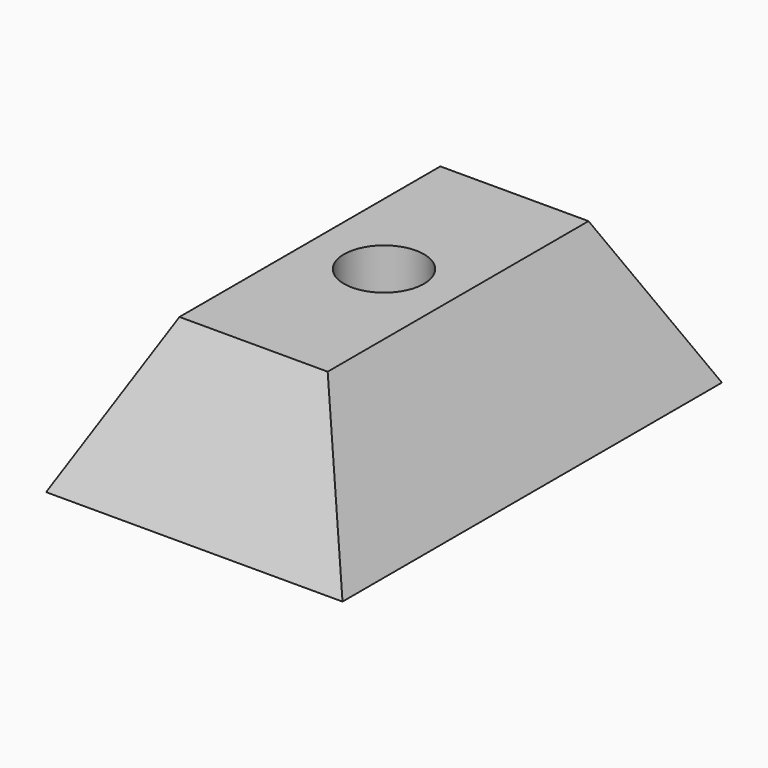
from build123d import *

# Parameters (mm, degrees)
F1_DEPTH = 10.16
F3_DEPTH = 12.7
F5_D     = 3.429


with BuildPart() as f1:
    # F0 (on Front) → F1 (new body, symmetric)
    with BuildSketch(Plane.XZ):
        Polygon((0, 6.35), (-3.175, 6.35), (-6.35, 0), (0, 0), (6.35, 0), (3.175, 6.35), align=None)
    extrude(amount=F1_DEPTH, both=True)

    # F2 (on Right) → F3 (cut, symmetric)
    with BuildSketch(Plane.YZ):
        Polygon((-10.16, 6.35), (-10.16, 0), (-6.985, 6.35), align=None)
        Polygon((6.985, 6.35), (10.16, 0), (10.16, 6.35), align=None)
    extrude(amount=F3_DEPTH, both=True, mode=Mode.SUBTRACT)

    # F5 (through all)
    with Locations(Plane.XY.offset(6.35)):
        with Locations((0, 0)):
            Hole(F5_D / 2)


solid = f1.part
